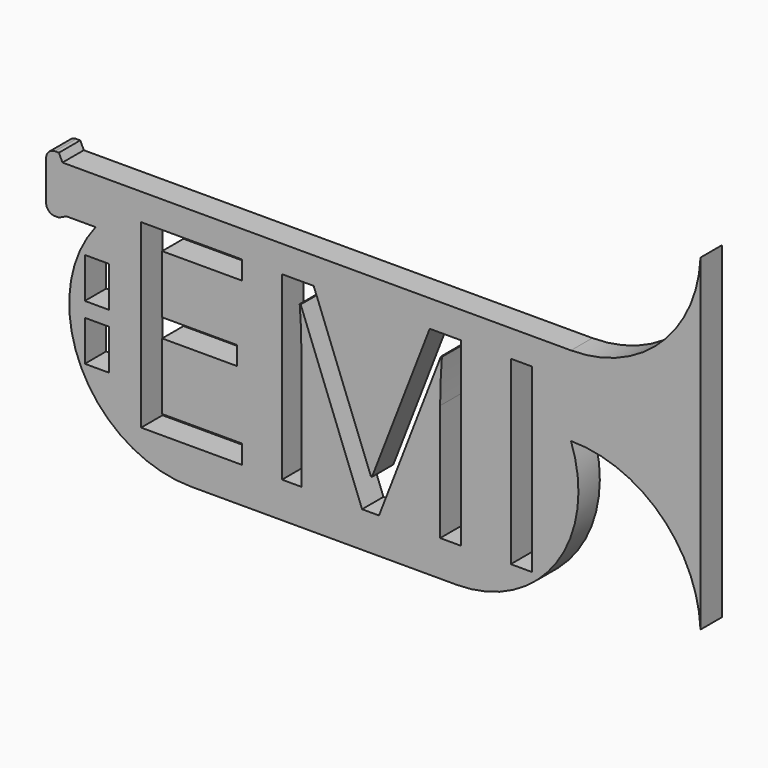
from build123d import *

# Parameters (mm, degrees)
F0_W     = 2.7374038473
F0_H     = 4.5464726281
F0_W_2   = 2.3603244432
F0_H_2   = 20.3094583448
F1_DEPTH = 3


with BuildPart() as f1:
    # F0 (on Front) → F1 (new body)
    with BuildSketch(Plane.XZ):
        with BuildLine():
            Line((-13.9879264009, 8.4983842463), (-10.7078288449, 8.4983842463))
            ThreePointArc((-10.7078288449, 8.4983842463), (-12.3096819162, -5.9457433928), (0, -13.6704108706))
            Line((0, -13.6704108706), (29.832560569, -13.6704108706))
            ThreePointArc((29.832560569, -13.6704108706), (41.0439649972, -7.8220549805), (42.6626390029, 4.7190275219))
            ThreePointArc((42.6626390029, 4.7190275219), (52.7277631814, 0.6811115523), (57.2114773095, -9.193492122))
            Line((57.2114773095, -9.193492122), (57.2114773095, 27.5829305145))
            ThreePointArc((57.2114773095, 27.5829305145), (52.7277631814, 17.7083268402), (42.6626390029, 13.6704108706))
            Line((42.6626390029, 13.6704108706), (29.832560569, 13.6704108706))
            Line((29.832560569, 13.6704108706), (0, 13.6704108706))
            Line((0, 13.6704108706), (-14.4307379611, 13.6704108706))
            Line((-14.4307379611, 13.6704108706), (-14.8297163701, 14.5122008398))
            Line((-14.8297163701, 14.5122008398), (-15.268201828, 14.5122008398))
            ThreePointArc((-15.268201828, 14.5122008398), (-15.9753086092, 14.219307621), (-16.268201828, 13.5122008398))
            Line((-16.268201828, 13.5122008398), (-16.268201828, 9.0994058373))
            ThreePointArc((-16.268201828, 9.0994058373), (-15.9753086092, 8.3922990562), (-15.268201828, 8.0994058373))
            Line((-15.268201828, 8.0994058373), (-14.8297163701, 8.0994058373))
            Line((-14.8297163701, 8.0994058373), (-13.9879264009, 8.4983842463))
        make_face()
        with Locations((-10.5523099191, -3.12910098)):
            Rectangle(F0_W, F0_H, mode=Mode.SUBTRACT)
        Polygon((5.7225638777, -7.545285929), (5.7225638777, -9.6566872671), (-5.59899235, -9.6566872671), (-5.59899235, 10.6527710777), (5.7225638777, 10.6527710777), (5.7225638777, 8.5547049059), (-3.2386679067, 8.5547049059), (-3.2386679067, 2.0115832855), (5.180267113, 2.0115832855), (5.180267113, -0.0731477199), (-3.2386679067, -0.0731477199), (-3.2386679067, -7.545285929), align=None, mode=Mode.SUBTRACT)
        with Locations((-10.5523099191, 3.0826488801)):
            Rectangle(F0_W, F0_H, mode=Mode.SUBTRACT)
        with BuildLine():
            Line((21.1113458408, -9.6566872671), (19.2088621088, -9.6566872671))
            Line((19.2088621088, -9.6566872671), (12.3190261635, 8.3457872998))
            Line((12.3190261635, 8.3457872998), (12.2078997772, 8.3457872998))
            add(Edge.make_bspline(
                [(12.2078997772, 8.3457872998), (12.403482217, 6.207715629), (12.403482217, 3.2606438666)],
                knots=[0, 0, 0, 1, 1, 1], degree=2))
            Line((12.403482217, 3.2606438666), (12.403482217, -9.6566872671))
            Line((12.403482217, -9.6566872671), (10.2209599917, -9.6566872671))
            Line((10.2209599917, -9.6566872671), (10.2209599917, 10.6527710777))
            Line((10.2209599917, 10.6527710777), (13.7770043506, 10.6527710777))
            Line((13.7770043506, 10.6527710777), (20.2089995848, -6.1006429082))
            Line((20.2089995848, -6.1006429082), (20.320125971, -6.1006429082))
            Line((20.320125971, -6.1006429082), (26.8054618705, 10.6527710777))
            Line((26.8054618705, 10.6527710777), (30.3348358968, 10.6527710777))
            Line((30.3348358968, 10.6527710777), (30.3348358968, -9.6566872671))
            Line((30.3348358968, -9.6566872671), (27.9745114535, -9.6566872671))
            Line((27.9745114535, -9.6566872671), (27.9745114535, 3.4295559736))
            add(Edge.make_bspline(
                [(27.9745114535, 3.4295559736), (27.9745114535, 5.6787540306), (28.1700938933, 8.3191169671)],
                knots=[0, 0, 0, 1, 1, 1], degree=2))
            Line((28.1700938933, 8.3191169671), (28.0589675071, 8.3191169671))
            Line((28.0589675071, 8.3191169671), (21.1113458408, -9.6566872671))
        make_face(mode=Mode.SUBTRACT)
        with Locations((37.0846525955, 0.4980419053)):
            Rectangle(F0_W_2, F0_H_2, mode=Mode.SUBTRACT)
    extrude(amount=F1_DEPTH)


solid = f1.part
